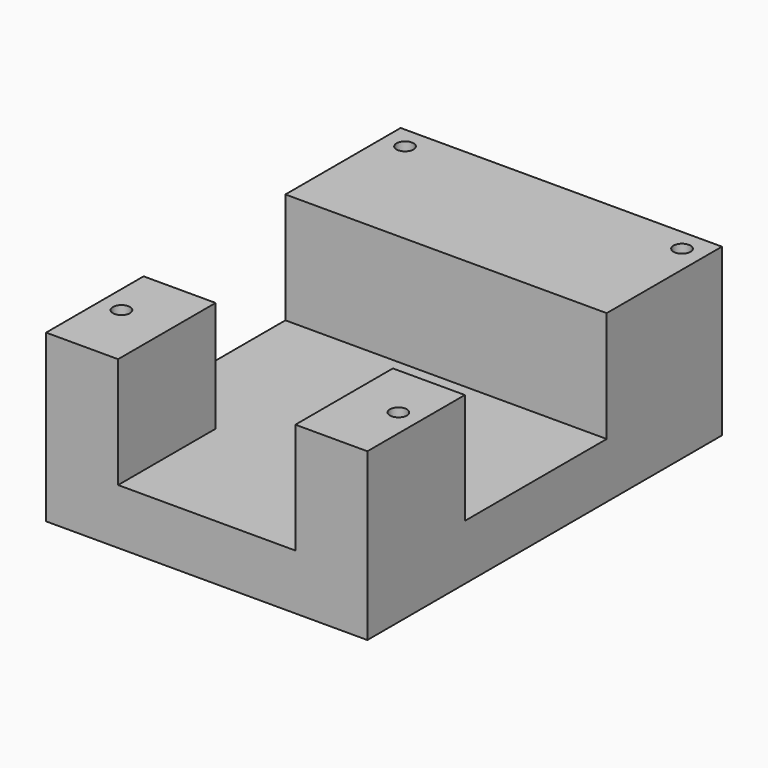
from build123d import *

# Parameters (mm, degrees)
F0_W     = 29
F0_H     = 40
F0_R     = 0.765
F1_DEPTH = 15
F2_W     = 29
F2_H     = 16
F3_DEPTH = 10
F4_W     = 16
F4_H     = 10
F5_DEPTH = 25


with BuildPart() as f1:
    # F0 (on Top) → F1 (new body)
    with BuildSketch(Plane.XY):
        Rectangle(F0_W, F0_H)
        with Locations((-12.5, -14)):
            Circle(F0_R, mode=Mode.SUBTRACT)
        with Locations((12.5, -14)):
            Circle(F0_R, mode=Mode.SUBTRACT)
        with Locations((-12.5, 18)):
            Circle(F0_R, mode=Mode.SUBTRACT)
        with Locations((12.5, 18)):
            Circle(F0_R, mode=Mode.SUBTRACT)
    extrude(amount=F1_DEPTH)

    # F2 (on face) → F3 (cut)
    with BuildSketch(Plane.XY.offset(15)):
        with Locations((0, -1)):
            Rectangle(F2_W, F2_H)
    extrude(amount=-F3_DEPTH, mode=Mode.SUBTRACT)

    # F4 (on face) → F5 (cut)
    with BuildSketch(Plane.XZ.offset(20)):
        with Locations((0, 10)):
            Rectangle(F4_W, F4_H)
    extrude(amount=-F5_DEPTH, mode=Mode.SUBTRACT)


solid = f1.part
